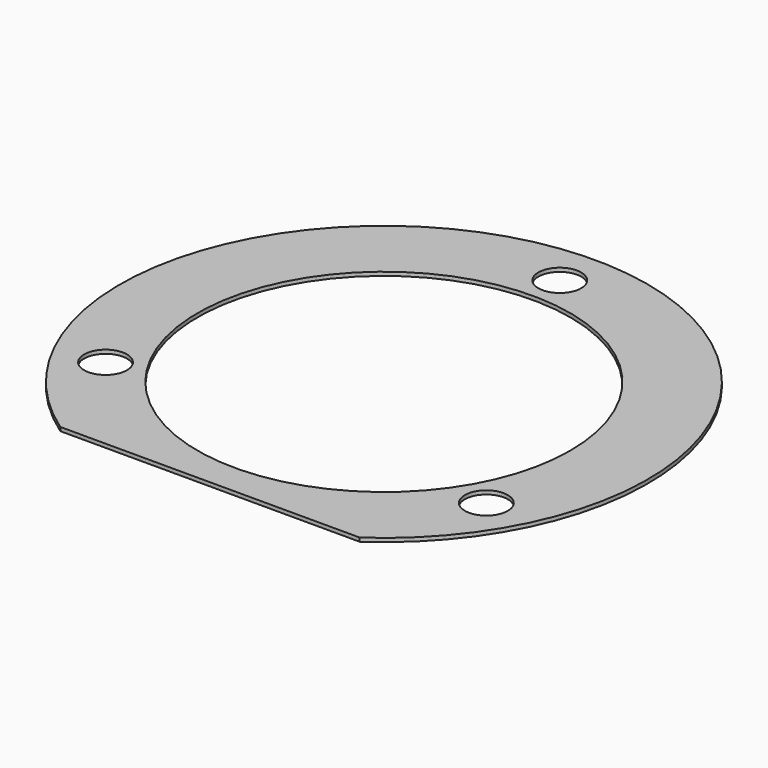
from build123d import *

# Parameters (mm, degrees)
F0_R     = 4.3815
F0_R_2   = 38.1
F1_DEPTH = 0.762


with BuildPart() as f1:
    # F0 (on Top) → F1 (new body)
    with BuildSketch(Plane.XY):
        with BuildLine():
            Line((-30.618591, -44.45), (30.618591, -44.45))
            ThreePointArc((30.618591, -44.45), (0, 53.975), (-30.618591, -44.45))
        make_face()
        with Locations((-38.93477, -22.479)):
            Circle(F0_R, mode=Mode.SUBTRACT)
        with Locations((38.93477, -22.479)):
            Circle(F0_R, mode=Mode.SUBTRACT)
        Circle(F0_R_2, mode=Mode.SUBTRACT)
        with Locations((0, 44.958)):
            Circle(F0_R, mode=Mode.SUBTRACT)
    extrude(amount=F1_DEPTH)


solid = f1.part
